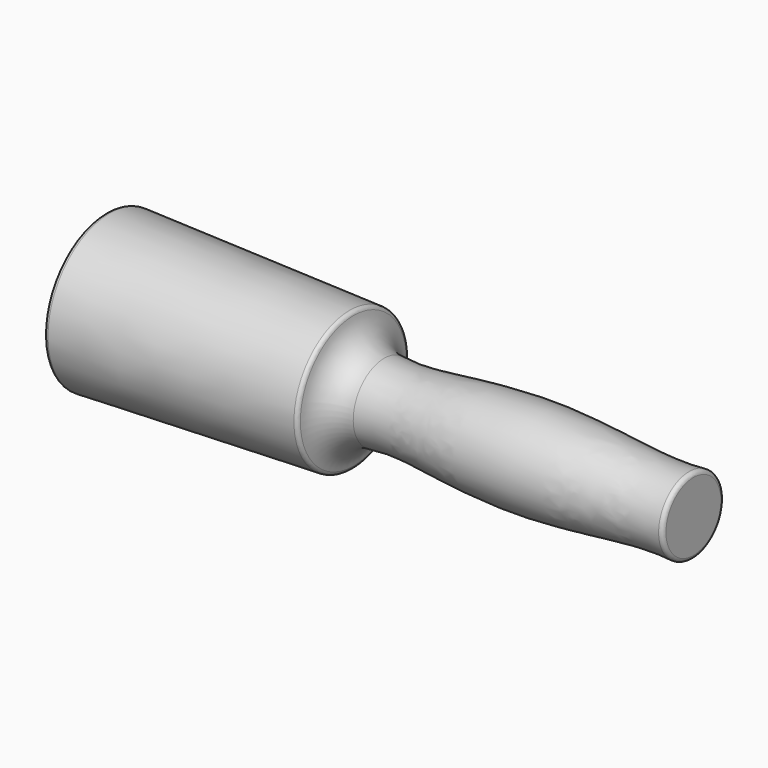
from build123d import *

# Parameters (mm, degrees)
F2_R = 1.5875


with BuildPart() as f1:
    # F0 (on Front) → F1 (revolve)
    with BuildSketch(Plane.XZ):
        with BuildLine():
            Line((0, 28.575), (-101.6, 31.75))
            Line((-101.6, 31.75), (-101.6, 0))
            Line((-101.6, 0), (139.7, 0))
            Line((139.7, 0), (139.7, 15.875))
            add(Edge.make_bspline(
                [(12.7, 15.875), (19.6285866527, 15.1117390773), (30.15997038, 15.4575746316), (73.5108770545, 21.2483273943), (116.9518666564, 15.3229099171), (133.585049313, 15.1176250373), (139.7, 15.875)],
                knots=[0, 0, 0, 0, 0.1900143896, 0.4850436502, 0.7903731133, 1, 1, 1, 1], degree=3))
            ThreePointArc((12.7, 15.875), (3.7197438789, 19.5947438789), (0, 28.575))
        make_face()
    revolve(axis=Axis((19.05, 0, 0), (1, 0, 0)))

    # F2
    f2_edges = [f1.edges().sort_by_distance(p)[0] for p in [
        (-101.6, 0, -31.75),
        (0, 0, -28.575),
        (139.7, 0, -15.875),
    ]]
    fillet(f2_edges, radius=F2_R)


solid = f1.part
